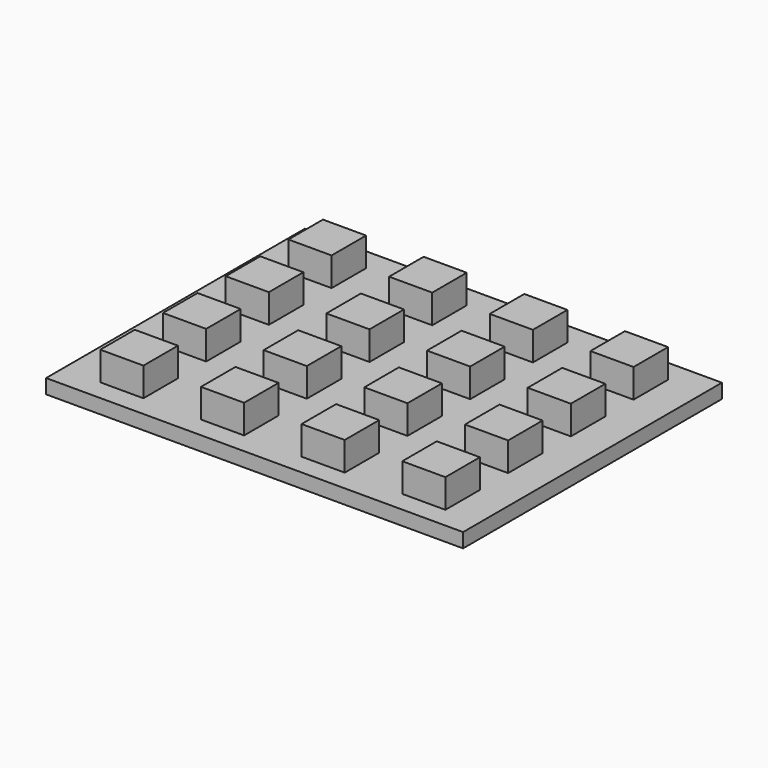
from build123d import *

# Parameters (mm, degrees)
F0_W     = 58
F0_H     = 45
F1_DEPTH = 2
F2_W     = 6
F2_H     = 6
F3_DEPTH = 4


with BuildPart() as f1:
    # F0 (on Top) → F1 (new body)
    with BuildSketch(Plane.XY):
        Rectangle(F0_W, F0_H)
    extrude(amount=F1_DEPTH)

    # F2 (on face) → F3 (join)
    with BuildSketch(Plane.XY.offset(2)):
        with Locations((-21, 16.386651)):
            Rectangle(F2_W, F2_H)
        with Locations((-7, 16.386651)):
            Rectangle(F2_W, F2_H)
        with Locations((7, 16.386651)):
            Rectangle(F2_W, F2_H)
        with Locations((21, 16.386651)):
            Rectangle(F2_W, F2_H)
        with Locations((-20.923837, 5.386915)):
            Rectangle(F2_W, F2_H)
        with Locations((-6.923837, 5.386915)):
            Rectangle(F2_W, F2_H)
        with Locations((7.076163, 5.386915)):
            Rectangle(F2_W, F2_H)
        with Locations((21.076163, 5.386915)):
            Rectangle(F2_W, F2_H)
        with Locations((-20.847673, -5.612822)):
            Rectangle(F2_W, F2_H)
        with Locations((-6.847673, -5.612822)):
            Rectangle(F2_W, F2_H)
        with Locations((7.152327, -5.612822)):
            Rectangle(F2_W, F2_H)
        with Locations((21.152327, -5.612822)):
            Rectangle(F2_W, F2_H)
        with Locations((-20.77151, -16.612558)):
            Rectangle(F2_W, F2_H)
        with Locations((-6.77151, -16.612558)):
            Rectangle(F2_W, F2_H)
        with Locations((7.22849, -16.612558)):
            Rectangle(F2_W, F2_H)
        with Locations((21.22849, -16.612558)):
            Rectangle(F2_W, F2_H)
    extrude(amount=F3_DEPTH)


solid = f1.part
